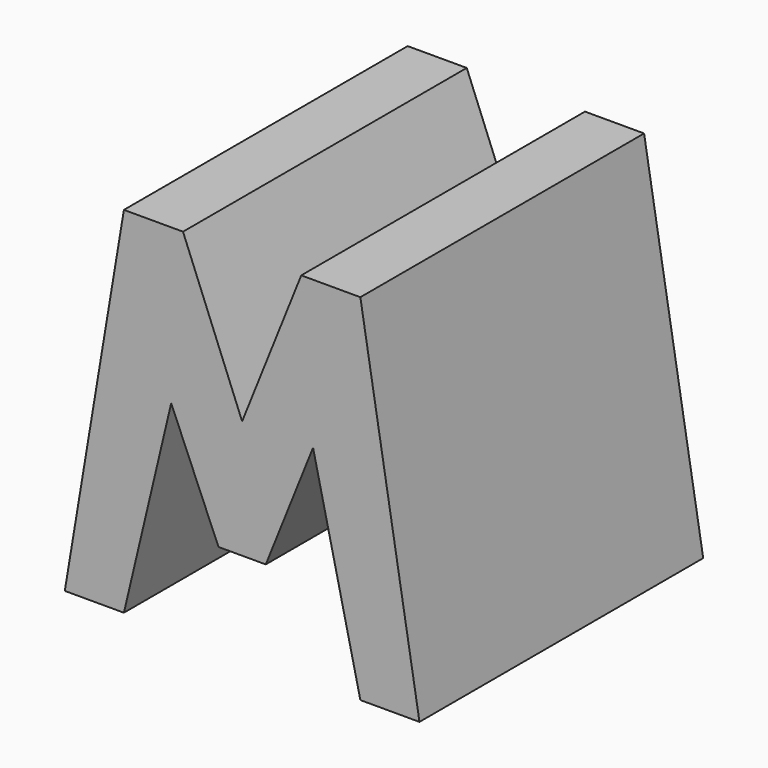
from build123d import *

# Parameters (mm, degrees)
F0_W     = 38.1
F0_H     = 38.1
F1_DEPTH = 38.1
F5_DEPTH = 38.1


with BuildPart() as f1:
    # F0 (on Front) → F1 (new body)
    with BuildSketch(Plane.XZ):
        with Locations((19.05, 19.05)):
            Rectangle(F0_W, F0_H)
    extrude(amount=F1_DEPTH)

    # F4 (on offset) → F5 (cut)
    with BuildSketch(Plane.XZ.offset(38.1)):
        Polygon((11.43, 21.469494), (6.35, 0), (31.75, 0), (26.67, 22.225), (21.59, 9.525), (16.51, 9.525), align=None)
        Polygon((31.75, 38.1), (38.1, 0), (38.1, 38.1), align=None)
        Polygon((25.4, 38.1), (12.7, 38.1), (19.05, 22.225), align=None)
        Polygon((6.35, 38.1), (0, 38.1), (0, 0), align=None)
    extrude(amount=-F5_DEPTH, mode=Mode.SUBTRACT)


solid = f1.part
